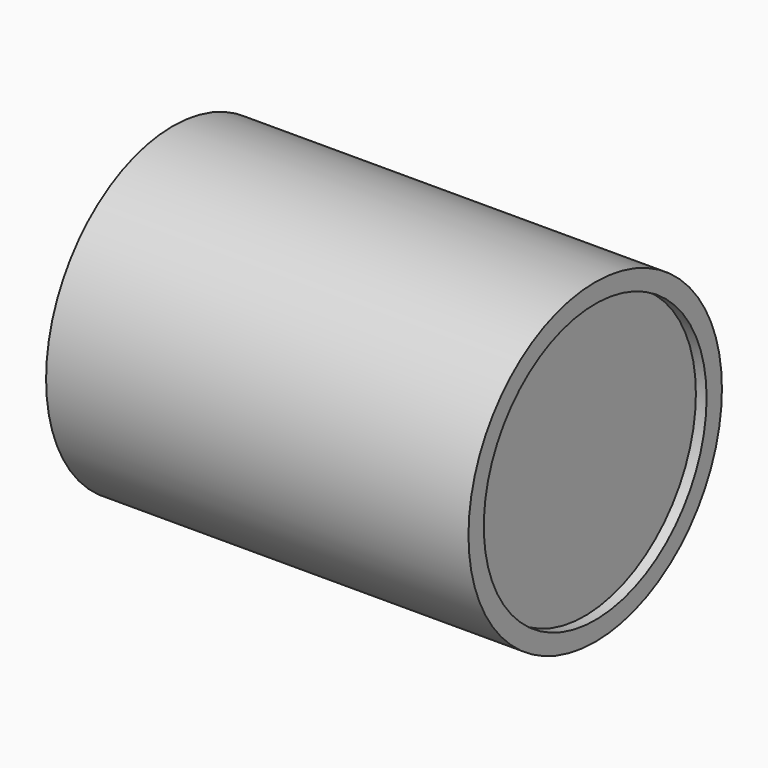
from build123d import *

# Parameters (mm, degrees)
F0_W     = 100.1651920378
F0_H     = 37.5619474798
F3_R     = 33.02
F4_DEPTH = 2.54
F2_R     = 33.02
F5_DEPTH = 2.54


with BuildPart() as f1:
    # F0 (on Front) → F1 (revolve)
    with BuildSketch(Plane.XZ):
        with Locations((-3.2065082341, -8.8560683653)):
            Rectangle(F0_W, F0_H)
    revolve(axis=Axis((-3.2065082341, 0, -27.6370421052), (1, 0, 0)))

    # F3 (on face) → F4 (cut)
    with BuildSketch(Plane.YZ.offset(46.8760877848)):
        with Locations((0, -27.6370421052)):
            Circle(F3_R)
    extrude(amount=-F4_DEPTH, mode=Mode.SUBTRACT)

    # F2 (on face) → F5 (join)
    with BuildSketch(Plane(origin=(-53.2891042531, 0, 0), x_dir=(0, -1, 0), z_dir=(-1, 0, 0))):
        with Locations((0, -27.6370421052)):
            Circle(F2_R)
    extrude(amount=F5_DEPTH)


solid = f1.part
